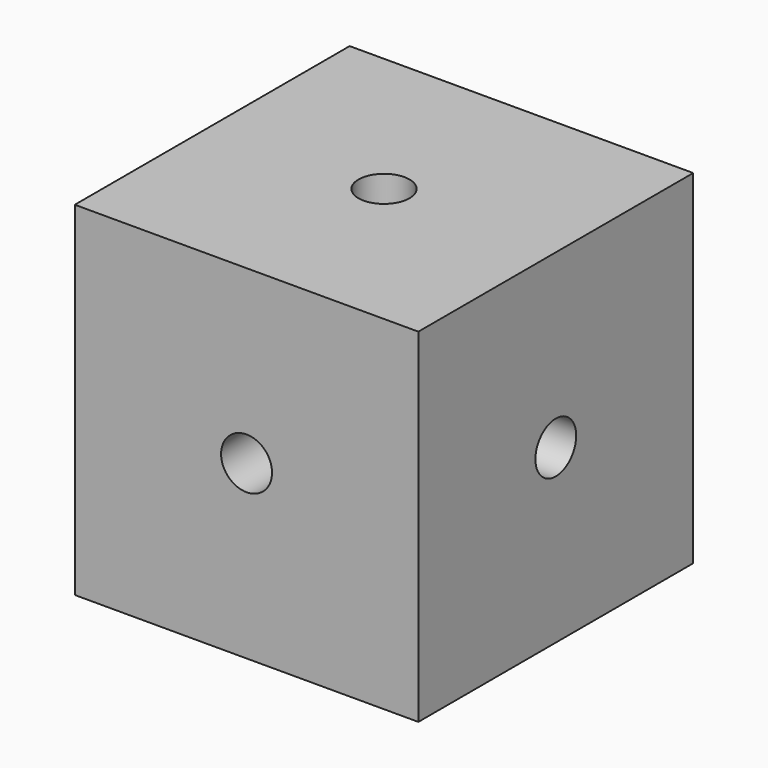
from build123d import *

# Parameters (mm, degrees)
F0_W     = 15.24
F0_H     = 15.24
F1_DEPTH = 15.24
F3_D     = 2.2606
F3_DEPTH = 14.605
F3_TIP   = 0.6791527577
F6_D     = 2.2606
F6_DEPTH = 14.605
F6_TIP   = 0.6791527577
F7_D     = 2.2606
F7_DEPTH = 14.605
F7_TIP   = 0.6791527577


with BuildPart() as f1:
    # F0 (on Front) → F1 (new body)
    with BuildSketch(Plane.XZ):
        Rectangle(F0_W, F0_H)
    extrude(amount=F1_DEPTH)

    # F3
    with Locations(Plane.XZ.offset(15.24)):
        with Locations((0, 0)):
            Hole(F3_D / 2, depth=F3_DEPTH)
            with Locations((0, 0, -(F3_DEPTH + F3_TIP / 2))):  # 118° drill point
                Cone(0, F3_D / 2, F3_TIP, mode=Mode.SUBTRACT)

    # F6
    with Locations(Plane.YZ.offset(7.62)):
        with Locations((-7.62, 0)):
            Hole(F6_D / 2, depth=F6_DEPTH)
            with Locations((0, 0, -(F6_DEPTH + F6_TIP / 2))):  # 118° drill point
                Cone(0, F6_D / 2, F6_TIP, mode=Mode.SUBTRACT)

    # F7
    with Locations(Plane.XY.offset(7.62)):
        with Locations((0, -7.62)):
            Hole(F7_D / 2, depth=F7_DEPTH)
            with Locations((0, 0, -(F7_DEPTH + F7_TIP / 2))):  # 118° drill point
                Cone(0, F7_D / 2, F7_TIP, mode=Mode.SUBTRACT)


solid = f1.part
